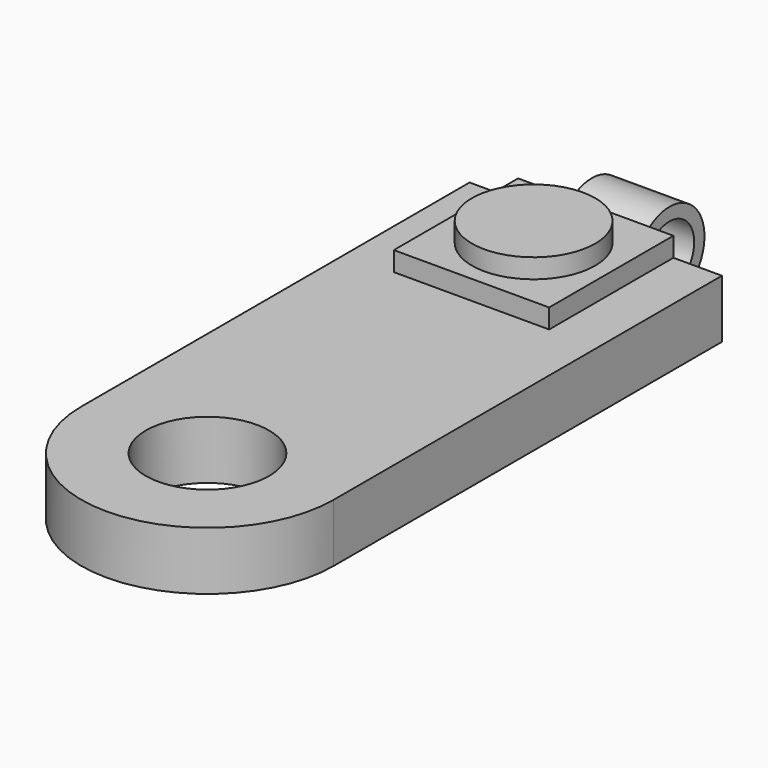
from build123d import *

# Parameters (mm, degrees)
F1_DEPTH = 1.5
F2_W     = 8
F2_H     = 8
F3_DEPTH = 1
F4_R     = 3.175
F5_DEPTH = 1
F7_DEPTH = 2
F9_D     = 3.175
F11_D    = 6.35


with BuildPart() as f1:
    # F0 (on Top) → F1 (new body, symmetric)
    with BuildSketch(Plane.XY):
        with BuildLine():
            Line((-6.5, 25), (-6.5, 0))
            ThreePointArc((-6.5, 0), (0, -6.5), (6.5, 0))
            Line((6.5, 0), (6.5, 25))
            Line((6.5, 25), (-6.5, 25))
        make_face()
    extrude(amount=F1_DEPTH, both=True)

    # F2 (on face) → F3 (join)
    with BuildSketch(Plane.XY.offset(1.5)):
        with Locations((0, 21)):
            Rectangle(F2_W, F2_H)
    extrude(amount=F3_DEPTH)

    # F4 (on face) → F5 (join)
    with BuildSketch(Plane.XY.offset(2.5)):
        with Locations((0, 21)):
            Circle(F4_R)
    extrude(amount=F5_DEPTH)

    # F6 (on Right) → F7 (join, symmetric)
    with BuildSketch(Plane.YZ):
        with BuildLine():
            Line((25.572949, 1.5), (25, 1.5))
            Line((25, 1.5), (25, -1.5))
            Line((25, -1.5), (25.572949, -1.5))
            ThreePointArc((25.572949, -1.5), (29.5, 0), (25.572949, 1.5))
        make_face()
    extrude(amount=F7_DEPTH, both=True)

    # F9 (through all)
    with Locations(Plane.YZ.offset(2)):
        with Locations((27.25, 0)):
            Hole(F9_D / 2)

    # F11 (through all)
    with Locations(Plane.XY.offset(1.5)):
        with Locations((0, 0)):
            Hole(F11_D / 2)


solid = f1.part
